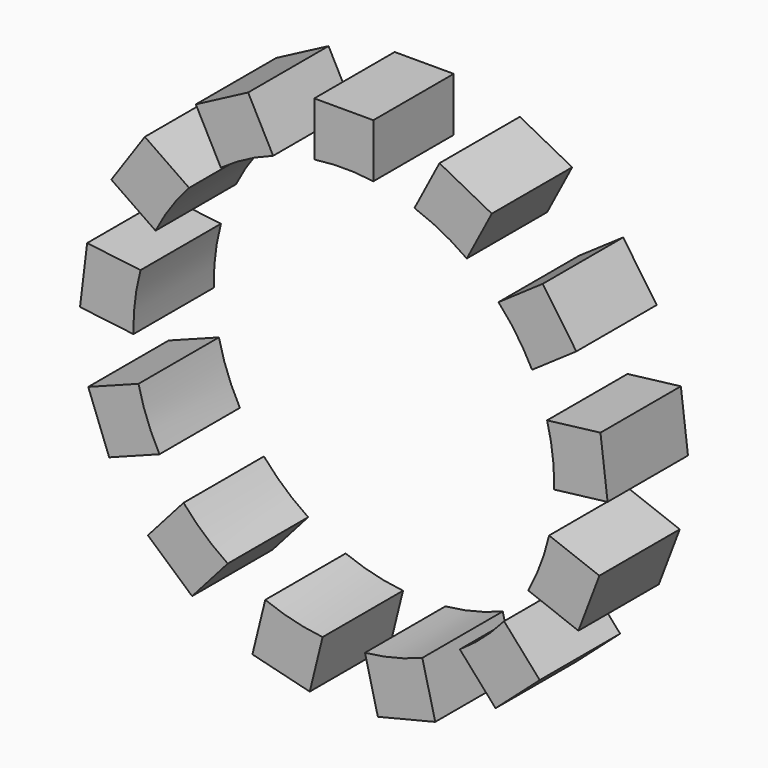
from build123d import *

# Parameters (mm, degrees)
F1_DEPTH = 25


with BuildPart() as f1:
    # F0 (on Front) → F1 (new body)
    with BuildSketch(Plane.XZ):
        with BuildLine():
            ThreePointArc((23.328151, 21.961595), (27.928518, 16.208969), (31.676004, 9.867642))
            Line((31.676004, 9.867642), (42.686665, 17.467753))
            Line((42.686665, 17.467753), (34.338812, 29.561705))
            Line((34.338812, 29.561705), (23.328151, 21.961595))
        make_face()
        with BuildLine():
            ThreePointArc((2.42527, 35.781531), (9.172071, 32.82573), (15.437267, 28.952308))
            Line((15.437267, 28.952308), (21.654776, 40.798781))
            Line((21.654776, 40.798781), (8.642779, 47.628004))
            Line((8.642779, 47.628004), (2.42527, 35.781531))
        make_face()
        with BuildLine():
            ThreePointArc((-22.505756, 38.304423), (-15.158131, 38.822587), (-7.810507, 38.304423))
            Line((-7.810507, 38.304423), (-7.810507, 51.683375))
            Line((-7.810507, 51.683375), (-22.505756, 51.683375))
            Line((-22.505756, 51.683375), (-22.505756, 38.304423))
        make_face()
        with BuildLine():
            ThreePointArc((-45.75353, 28.952308), (-39.488334, 32.82573), (-32.741533, 35.781531))
            Line((-32.741533, 35.781531), (-38.959042, 47.628004))
            Line((-38.959042, 47.628004), (-51.971039, 40.798781))
            Line((-51.971039, 40.798781), (-45.75353, 28.952308))
        make_face()
        with BuildLine():
            ThreePointArc((-61.992267, 9.867642), (-58.244781, 16.208969), (-53.644414, 21.961595))
            Line((-53.644414, 21.961595), (-64.655075, 29.561705))
            Line((-64.655075, 29.561705), (-73.002928, 17.467753))
            Line((-73.002928, 17.467753), (-61.992267, 9.867642))
        make_face()
        with BuildLine():
            ThreePointArc((-67.501867, -14.577508), (-67.130595, -7.220998), (-65.730551, 0.010596))
            Line((-65.730551, 0.010596), (-79.011955, 1.623251))
            Line((-79.011955, 1.623251), (-80.783271, -12.964853))
            Line((-80.783271, -12.964853), (-67.501867, -14.577508))
        make_face()
        with BuildLine():
            Line((-73.529686, -43.527294), (-61.020149, -38.783052))
            ThreePointArc((-61.020149, -38.783052), (-64.110144, -32.096647), (-66.231156, -25.042756))
            Line((-66.231156, -25.042756), (-78.740693, -29.786997))
            Line((-78.740693, -29.786997), (-73.529686, -43.527294))
        make_face()
        with BuildLine():
            Line((-52.903881, -67.218082), (-44.031995, -57.203793))
            ThreePointArc((-44.031995, -57.203793), (-49.875377, -52.719267), (-55.031547, -47.45904))
            Line((-55.031547, -47.45904), (-63.903433, -57.473329))
            Line((-63.903433, -57.473329), (-52.903881, -67.218082))
        make_face()
        with BuildLine():
            Line((-23.63098, -78.609943), (-20.429187, -65.619759))
            ThreePointArc((-20.429187, -65.619759), (-27.687308, -64.364465), (-34.697419, -62.102956))
            Line((-34.697419, -62.102956), (-37.899212, -75.09314))
            Line((-37.899212, -75.09314), (-23.63098, -78.609943))
        make_face()
        with BuildLine():
            Line((7.582949, -75.09314), (4.381156, -62.102956))
            ThreePointArc((4.381156, -62.102956), (-2.628955, -64.364465), (-9.887076, -65.619759))
            Line((-9.887076, -65.619759), (-6.685283, -78.609943))
            Line((-6.685283, -78.609943), (7.582949, -75.09314))
        make_face()
        with BuildLine():
            Line((33.58717, -57.473329), (24.715284, -47.45904))
            ThreePointArc((24.715284, -47.45904), (19.559114, -52.719267), (13.715732, -57.203793))
            Line((13.715732, -57.203793), (22.587618, -67.218082))
            Line((22.587618, -67.218082), (33.58717, -57.473329))
        make_face()
        with BuildLine():
            Line((48.42443, -29.786997), (35.914893, -25.042756))
            ThreePointArc((35.914893, -25.042756), (33.793881, -32.096647), (30.703886, -38.783052))
            Line((30.703886, -38.783052), (43.213423, -43.527294))
            Line((43.213423, -43.527294), (48.42443, -29.786997))
        make_face()
        with BuildLine():
            ThreePointArc((35.414288, 0.010596), (36.7487, -6.702145), (37.196053, -13.531598))
            ThreePointArc((37.196053, -13.531598), (37.193441, -14.054579), (37.185604, -14.577508))
            Line((37.185604, -14.577508), (50.467008, -12.964853))
            Line((50.467008, -12.964853), (48.695692, 1.623251))
            Line((48.695692, 1.623251), (35.414288, 0.010596))
        make_face()
    extrude(amount=F1_DEPTH)


solid = f1.part
